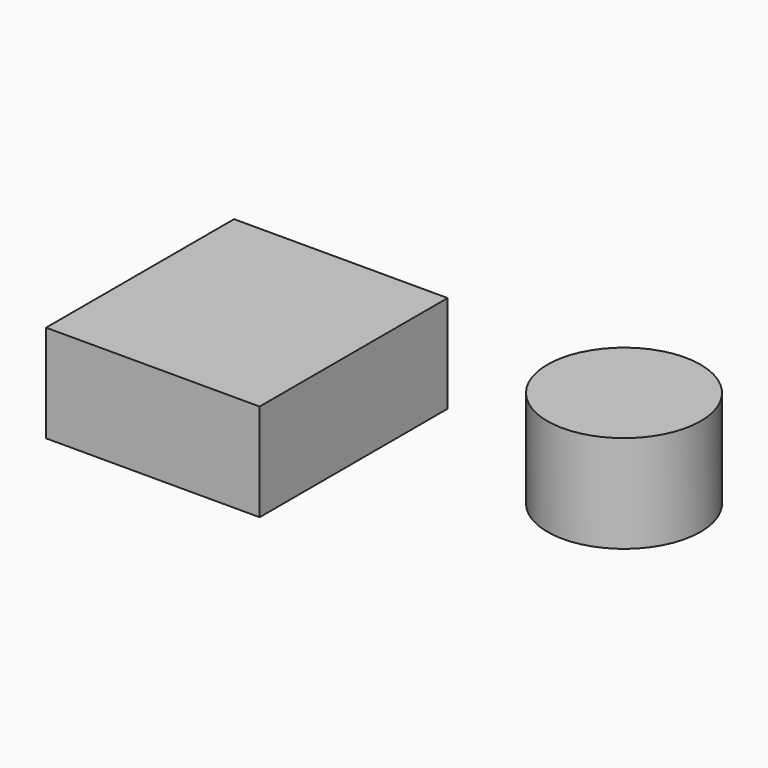
from build123d import *

# Parameters (mm, degrees)
F2_R     = 19.64263
F2_W     = 54.768816
F2_H     = 60.267419
F3_DEPTH = 25


with BuildPart() as f3:
    # F2 (on offset) → F3 (new body)
    with BuildSketch(Plane.XY.offset(25)):
        Circle(F2_R)
        with Locations((-80.661617, -20.072605)):
            Rectangle(F2_W, F2_H)
    extrude(amount=F3_DEPTH)


solid = f3.part
